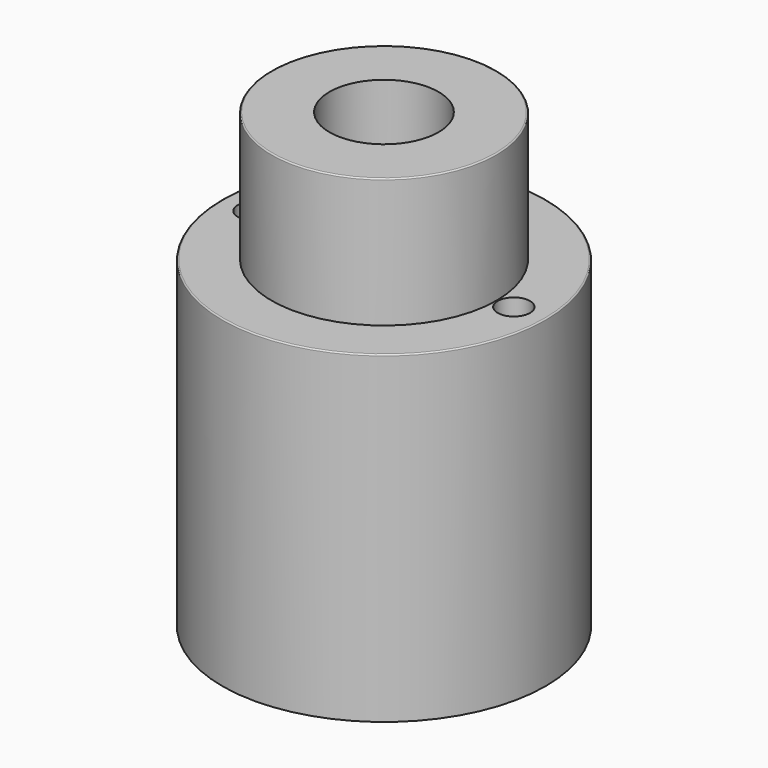
from build123d import *

# Parameters (mm, degrees)
F0_R      = 15.875
F1_DEPTH  = 31.75
F2_R      = 11.049
F3_DEPTH  = 12.7
F5_D      = 10.71626
F5_DEPTH  = 18.5615384615
F5_TIP    = 3.2194893086
F7_D      = 3.175
F7_DEPTH  = 6.35
F7_TIP    = 0.9538662327
F8_R      = 0.127
F10_D     = 14.68374
F10_DEPTH = 25.4
F10_TIP   = 4.411440553


with BuildPart() as f1:
    # F0 (on Top) → F1 (new body)
    with BuildSketch(Plane.XY):
        Circle(F0_R)
    extrude(amount=F1_DEPTH)

    # F2 (on face) → F3 (join)
    with BuildSketch(Plane.XY.offset(31.75)):
        Circle(F2_R)
    extrude(amount=F3_DEPTH)

    # F5
    with Locations(Plane.XY.offset(44.45)):
        with Locations((0, 0)):
            Hole(F5_D / 2, depth=F5_DEPTH)
            with Locations((0, 0, -(F5_DEPTH + F5_TIP / 2))):  # 118° drill point
                Cone(0, F5_D / 2, F5_TIP, mode=Mode.SUBTRACT)

    # F7
    with Locations(Plane.XY.offset(31.75)):
        with Locations((-12.7611987248, 0), (12.7453794703, 0)):
            Hole(F7_D / 2, depth=F7_DEPTH)
            with Locations((0, 0, -(F7_DEPTH + F7_TIP / 2))):  # 118° drill point
                Cone(0, F7_D / 2, F7_TIP, mode=Mode.SUBTRACT)

    # F8
    f8_edges = [f1.edges().sort_by_distance(p)[0] for p in [
        (-11.049, 0, 44.45),
        (-15.875, 0, 31.75),
    ]]
    fillet(f8_edges, radius=F8_R)

    # F10
    with Locations(Plane(origin=(0, 0, 0), x_dir=(1, 0, 0), z_dir=(0, 0, -1))):
        with Locations((0, 0)):
            Hole(F10_D / 2, depth=F10_DEPTH)
            with Locations((0, 0, -(F10_DEPTH + F10_TIP / 2))):  # 118° drill point
                Cone(0, F10_D / 2, F10_TIP, mode=Mode.SUBTRACT)


solid = f1.part
